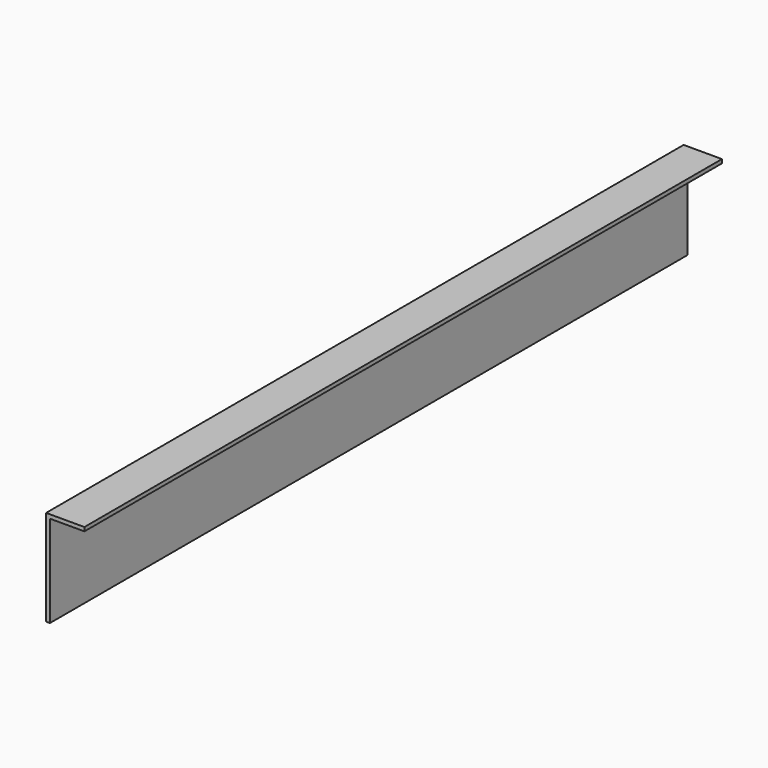
from build123d import *

# Parameters (mm, degrees)
PAD_DEPTH = 208


with BuildPart() as part:
    # Sketch → Pad (new body)
    with BuildSketch(Plane.XZ):
        Polygon((9, 0), (0, 0), (0, -24), (-1, -24), (-1, 1), (9, 1), align=None)
    extrude(amount=PAD_DEPTH)


solid = part.part
